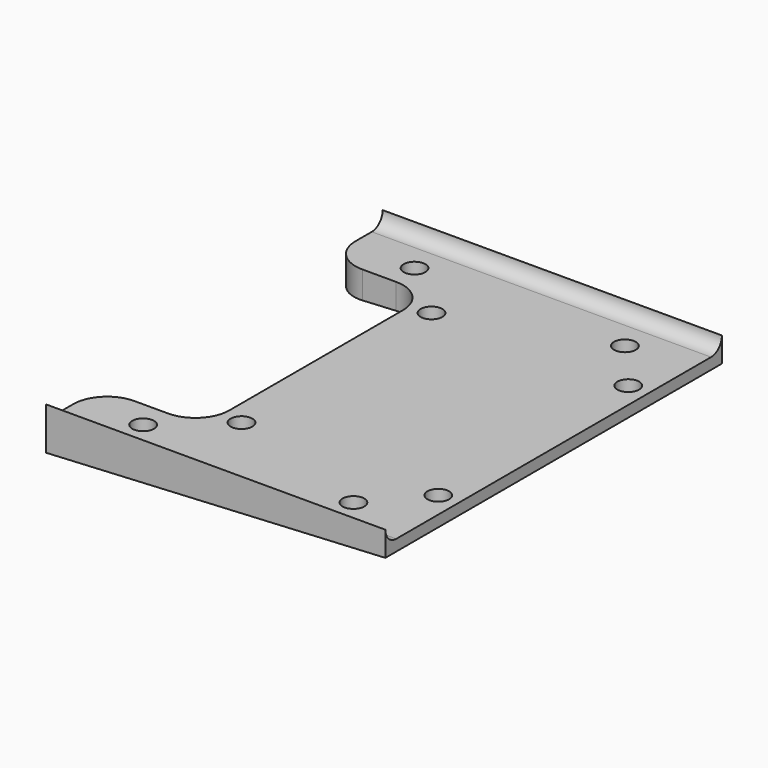
from build123d import *

# Parameters (mm, degrees)
CYLINDER138_R          = 1.6
CYLINDER138_DEPTH      = 10
CYLINDER139_R          = 1.6
CYLINDER139_DEPTH      = 10
CYLINDER140_R          = 1.6
CYLINDER140_DEPTH      = 10
CYLINDER141_R          = 1.6
CYLINDER141_DEPTH      = 10
BOX063_W               = 62
BOX063_H               = 10
BOX063_DEPTH           = 29
BOX064_W               = 62
BOX064_H               = 10
BOX064_DEPTH           = 29
CYLINDER103_R          = 1.6
CYLINDER103_DEPTH      = 10
CYLINDER102_R          = 1.6
CYLINDER102_DEPTH      = 10
CYLINDER104_R          = 1.6
CYLINDER104_DEPTH      = 10
CYLINDER105_R          = 1.6
CYLINDER105_DEPTH      = 10
CYLINDER099_R          = 1.6
CYLINDER099_DEPTH      = 15
CYLINDER098_R          = 1.6
CYLINDER098_DEPTH      = 15
CYLINDER101_R          = 1.6
CYLINDER101_DEPTH      = 15
CYLINDER100_R          = 1.6
CYLINDER100_DEPTH      = 15
BOX047_W               = 15
BOX047_H               = 42
BOX047_DEPTH           = 20
BOX046_W               = 50
BOX046_H               = 62
BOX046_DEPTH           = 20
FILLET018_R            = 2
BOX044_W               = 58
BOX044_H               = 68
BOX044_DEPTH           = 10
BOX044_PLACEMENT_ANGLE = 3
BOX045_W               = 50
BOX045_H               = 68
BOX045_DEPTH           = 22
FILLET019_R            = 5
FILLET020_R            = 2
FILLET021_R            = 5
FILLET022_R            = 3


with BuildPart() as cylinder138:
    # Cylinder138 → Cylinder138 (new body)
    with BuildSketch(Plane(origin=(320, 6, -6), x_dir=(1, 0, 0), z_dir=(0, 0, 1))):
        Circle(CYLINDER138_R)
    extrude(amount=CYLINDER138_DEPTH)


with BuildPart() as fusion116:
    # Cylinder139 → Cylinder139 (new body)
    with BuildSketch(Plane(origin=(320, 56, -6), x_dir=(1, 0, 0), z_dir=(0, 0, 1))):
        Circle(CYLINDER139_R)
    extrude(amount=CYLINDER139_DEPTH)

    # Fusion116: union Cylinder138
    add(cylinder138.part)


with BuildPart() as fusion116_1:
    # Fusion116 placement: moved
    add(fusion116.part.moved(Location((2, 0, 0))))


with BuildPart() as cylinder140:
    # Cylinder140 → Cylinder140 (new body)
    with BuildSketch(Plane(origin=(320, 6, -6), x_dir=(1, 0, 0), z_dir=(0, 0, 1))):
        Circle(CYLINDER140_R)
    extrude(amount=CYLINDER140_DEPTH)


with BuildPart() as fusion118:
    # Cylinder141 → Cylinder141 (new body)
    with BuildSketch(Plane(origin=(320, 56, -6), x_dir=(1, 0, 0), z_dir=(0, 0, 1))):
        Circle(CYLINDER141_R)
    extrude(amount=CYLINDER141_DEPTH)

    # Fusion117: union Cylinder140
    add(cylinder140.part)


with BuildPart() as fusion118_1:
    # Fusion117 placement: moved
    add(fusion118.part.moved(Location((33, 0, 0))))

    # Fusion118: union Fusion116
    add(fusion116_1.part)


with BuildPart() as cube042:
    # Box063 → Box063 (new body)
    with BuildSketch(Plane(origin=(309, -10, -9), x_dir=(1, 0, 0), z_dir=(0, 0, 1))):
        with Locations((31, 5)):
            Rectangle(BOX063_W, BOX063_H)
    extrude(amount=BOX063_DEPTH)


with BuildPart() as fusion115:
    # Box064 → Box064 (new body)
    with BuildSketch(Plane(origin=(309, 62, -9), x_dir=(1, 0, 0), z_dir=(0, 0, 1))):
        with Locations((31, 5)):
            Rectangle(BOX064_W, BOX064_H)
    extrude(amount=BOX064_DEPTH)

    # Fusion115: union Cube042
    add(cube042.part)


with BuildPart() as cylinder103:
    # Cylinder103 → Cylinder103 (new body)
    with BuildSketch(Plane(origin=(355, 7, 10), x_dir=(1, 0, 0), z_dir=(0, -1, 0))):
        Circle(CYLINDER103_R)
    extrude(amount=CYLINDER103_DEPTH)


with BuildPart() as fusion089:
    # Cylinder102 → Cylinder102 (new body)
    with BuildSketch(Plane(origin=(320, 7, 10), x_dir=(1, 0, 0), z_dir=(0, -1, 0))):
        Circle(CYLINDER102_R)
    extrude(amount=CYLINDER102_DEPTH)

    # Fusion089: union Cylinder103
    add(cylinder103.part)


with BuildPart() as cylinder104:
    # Cylinder104 → Cylinder104 (new body)
    with BuildSketch(Plane(origin=(355, 7, 10), x_dir=(1, 0, 0), z_dir=(0, -1, 0))):
        Circle(CYLINDER104_R)
    extrude(amount=CYLINDER104_DEPTH)


with BuildPart() as fusion091:
    # Cylinder105 → Cylinder105 (new body)
    with BuildSketch(Plane(origin=(320, 7, 10), x_dir=(1, 0, 0), z_dir=(0, -1, 0))):
        Circle(CYLINDER105_R)
    extrude(amount=CYLINDER105_DEPTH)

    # Fusion090: union Cylinder104
    add(cylinder104.part)


with BuildPart() as fusion091_1:
    # Fusion090 placement: moved
    add(fusion091.part.moved(Location((0, 58, 0))))

    # Fusion091: union Fusion089
    add(fusion089.part)


with BuildPart() as cylinder099:
    # Cylinder099 → Cylinder099 (new body)
    with BuildSketch(Plane(origin=(359.5, 13.5, -15), x_dir=(1, 0, 0), z_dir=(0, 0, 1))):
        Circle(CYLINDER099_R)
    extrude(amount=CYLINDER099_DEPTH)


with BuildPart() as fusion083:
    # Cylinder098 → Cylinder098 (new body)
    with BuildSketch(Plane(origin=(330.5, 13.5, -15), x_dir=(1, 0, 0), z_dir=(0, 0, 1))):
        Circle(CYLINDER098_R)
    extrude(amount=CYLINDER098_DEPTH)

    # Fusion083: union Cylinder099
    add(cylinder099.part)


with BuildPart() as cylinder101:
    # Cylinder101 → Cylinder101 (new body)
    with BuildSketch(Plane(origin=(359.5, 13.5, -15), x_dir=(1, 0, 0), z_dir=(0, 0, 1))):
        Circle(CYLINDER101_R)
    extrude(amount=CYLINDER101_DEPTH)


with BuildPart() as fusion085:
    # Cylinder100 → Cylinder100 (new body)
    with BuildSketch(Plane(origin=(330.5, 13.5, -15), x_dir=(1, 0, 0), z_dir=(0, 0, 1))):
        Circle(CYLINDER100_R)
    extrude(amount=CYLINDER100_DEPTH)

    # Fusion084: union Cylinder101
    add(cylinder101.part)


with BuildPart() as fusion085_1:
    # Fusion084 placement: moved
    add(fusion085.part.moved(Location((0, 35, 0))))

    # Fusion085: union Fusion083
    add(fusion083.part)


with BuildPart() as cube026:
    # Box047 → Box047 (new body)
    with BuildSketch(Plane(origin=(312.5, 10, -5), x_dir=(1, 0, 0), z_dir=(0, 0, 1))):
        with Locations((7.5, 21)):
            Rectangle(BOX047_W, BOX047_H)
    extrude(amount=BOX047_DEPTH)


with BuildPart() as fillet018:
    # Box046 → Box046 (new body)
    with BuildSketch(Plane(origin=(312.5, 0, 0), x_dir=(1, 0, 0), z_dir=(0, 0, 1))):
        with Locations((25, 31)):
            Rectangle(BOX046_W, BOX046_H)
    extrude(amount=BOX046_DEPTH)

    # Fillet018
    fillet018_edges = [fillet018.edges().sort_by_distance(p)[0] for p in [
        (337.5, 0, 0),
        (337.5, 62, 0),
    ]]
    fillet(fillet018_edges, radius=FILLET018_R)


with BuildPart() as cube023:
    # Box044 → Box044 (new body)
    with BuildSketch(Plane.XY):
        with Locations((29, 34)):
            Rectangle(BOX044_W, BOX044_H)
    extrude(amount=BOX044_DEPTH)


with BuildPart() as cube023_1:
    # Box044 placement: moved
    add(cube023.part.moved(Location((308.5, -3, -14.5))).rotate(Axis((308.5, -3, -14.5), (0, -1, 0)), BOX044_PLACEMENT_ANGLE))


with BuildPart() as battery_box_holder:
    # Box045 → Box045 (new body)
    with BuildSketch(Plane(origin=(312.5, -3, -5), x_dir=(1, 0, 0), z_dir=(0, 0, 1))):
        with Locations((25, 34)):
            Rectangle(BOX045_W, BOX045_H)
    extrude(amount=BOX045_DEPTH)

    # Cut051: cut Cube023
    add(cube023_1.part, mode=Mode.SUBTRACT)

    # Cut052: cut Fillet018
    add(fillet018.part, mode=Mode.SUBTRACT)

    # Cut053: cut Cube026
    add(cube026.part, mode=Mode.SUBTRACT)

    # Fillet019
    fillet019_edges = [battery_box_holder.edges().sort_by_distance(p)[0] for p in [
        (327.5, 10, -1.745264),
        (327.5, 52, -1.745264),
    ]]
    fillet(fillet019_edges, radius=FILLET019_R)

    # Fillet020
    fillet020_edges = [battery_box_holder.edges().sort_by_distance(p)[0] for p in [
        (337.5, -3, -2.966451),
        (337.5, 65, -2.966451),
    ]]
    fillet(fillet020_edges, radius=FILLET020_R)

    # Fillet021
    fillet021_edges = [battery_box_holder.edges().sort_by_distance(p)[0] for p in [
        (312.5, 10, -2.138323),
        (312.5, 52, -2.138323),
    ]]
    fillet(fillet021_edges, radius=FILLET021_R)

    # Cut054: cut Fusion085
    add(fusion085_1.part, mode=Mode.SUBTRACT)

    # Cut055: cut Fusion091
    add(fusion091_1.part, mode=Mode.SUBTRACT)

    # Fillet022
    fillet022_edges = [battery_box_holder.edges().sort_by_distance(p)[0] for p in [
        (312.5, -1.5, 17),
        (362.5, -1.5, 17),
        (362.5, 63.5, 17),
        (312.5, 63.5, 17),
    ]]
    fillet(fillet022_edges, radius=FILLET022_R)

    # Cut073: cut Fusion115
    add(fusion115.part, mode=Mode.SUBTRACT)

    # Cut074: cut Fusion118
    add(fusion118_1.part, mode=Mode.SUBTRACT)


solid = battery_box_holder.part
